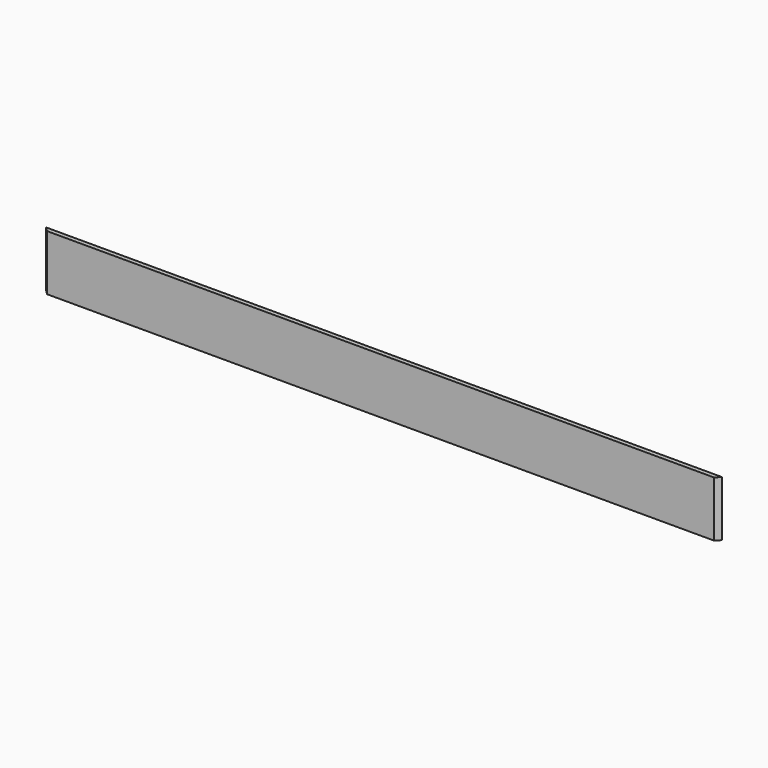
from build123d import *

# Parameters (mm, degrees)
F0_W     = 600
F0_H     = 4
F1_DEPTH = 50


with BuildPart() as f1:
    # F0 (on Top) → F1 (new body)
    with BuildSketch(Plane.XY):
        Polygon((600, 4), (600, 0), (604, 3.998755), align=None)
        with Locations((300, 2)):
            Rectangle(F0_W, F0_H)
        Polygon((-4, 3.943877), (0, 0), (0, 4), align=None)
    extrude(amount=F1_DEPTH)


solid = f1.part
